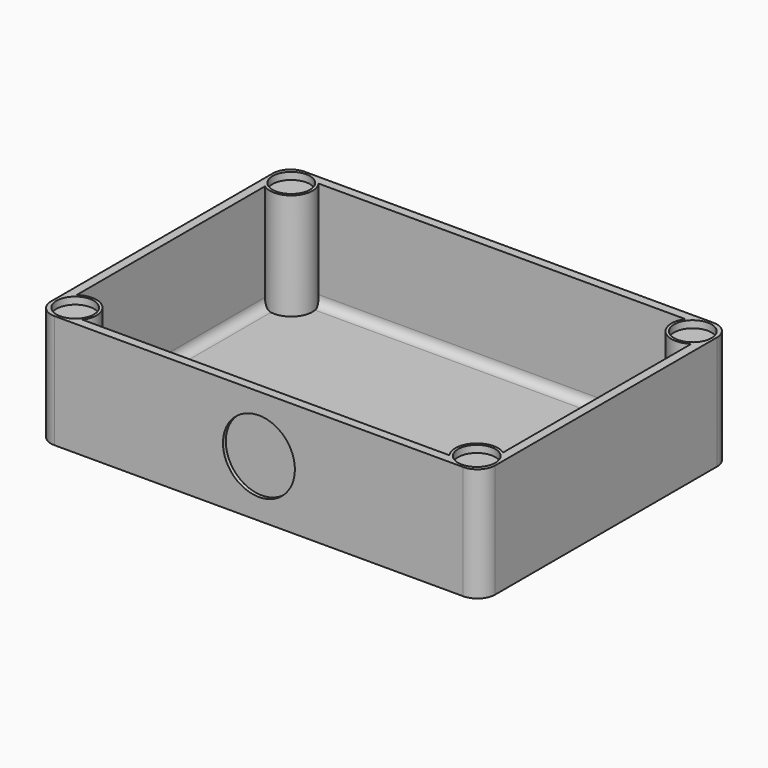
from build123d import *

# Parameters (mm, degrees)
SKETCH_W        = 125
SKETCH_H        = 88
PAD_DEPTH       = 32
SKETCH001_W     = 120
SKETCH001_H     = 83
POCKET_DEPTH    = 32
SKETCH002_R     = 6
PAD001_DEPTH    = 30
SKETCH003_R     = 5.25
POCKET001_DEPTH = 2
FILLET_R        = 2.5
FILLET001_R     = 2.5
FILLET002_R     = 2.5
FILLET003_R     = 2.5
FILLET004_R     = 5
FILLET005_R     = 5
FILLET006_R     = 5
FILLET007_R     = 5
SKETCH004_R     = 10.125
POCKET002_DEPTH = 1


with BuildPart() as part:
    # Sketch → Pad (new body)
    with BuildSketch(Plane.XY):
        with Locations((62.5, 44)):
            Rectangle(SKETCH_W, SKETCH_H)
    extrude(amount=PAD_DEPTH)

    # Sketch001 → Pocket (cut)
    with BuildSketch(Plane.XY.offset(34)):
        with Locations((62.5, 44)):
            Rectangle(SKETCH001_W, SKETCH001_H)
    extrude(amount=-POCKET_DEPTH, mode=Mode.SUBTRACT)

    # Sketch002 (on Face11 of Pocket) → Pad001 (join)
    with BuildSketch(Plane.XY.offset(2)):
        with Locations((6, 6)):
            Circle(SKETCH002_R)
        with Locations((6, 82)):
            Circle(SKETCH002_R)
        with Locations((119, 82)):
            Circle(SKETCH002_R)
        with Locations((119, 6)):
            Circle(SKETCH002_R)
    extrude(amount=PAD001_DEPTH)

    # Sketch003 (on Face27 of Pad001) → Pocket001 (cut)
    with BuildSketch(Plane.XY.offset(32)):
        with Locations((6, 6)):
            Circle(SKETCH003_R)
        with Locations((6, 82)):
            Circle(SKETCH003_R)
        with Locations((119, 82)):
            Circle(SKETCH003_R)
        with Locations((119, 6)):
            Circle(SKETCH003_R)
    extrude(amount=-POCKET001_DEPTH, mode=Mode.SUBTRACT)

    # Fillet
    fillet_edges = [part.edges().sort_by_distance(p)[0] for p in [
        (62.5, 2.5, 2),
    ]]
    fillet(fillet_edges, radius=FILLET_R)

    # Fillet001
    fillet001_edges = [part.edges().sort_by_distance(p)[0] for p in [
        (122.5, 44, 2),
    ]]
    fillet(fillet001_edges, radius=FILLET001_R)

    # Fillet002
    fillet002_edges = [part.edges().sort_by_distance(p)[0] for p in [
        (62.5, 85.5, 2),
    ]]
    fillet(fillet002_edges, radius=FILLET002_R)

    # Fillet003
    fillet003_edges = [part.edges().sort_by_distance(p)[0] for p in [
        (2.5, 44, 2),
    ]]
    fillet(fillet003_edges, radius=FILLET003_R)

    # Fillet004
    fillet004_edges = [part.edges().sort_by_distance(p)[0] for p in [
        (125, 88, 16),
    ]]
    fillet(fillet004_edges, radius=FILLET004_R)

    # Fillet005
    fillet005_edges = [part.edges().sort_by_distance(p)[0] for p in [
        (125, 0, 16),
    ]]
    fillet(fillet005_edges, radius=FILLET005_R)

    # Fillet006
    fillet006_edges = [part.edges().sort_by_distance(p)[0] for p in [
        (0, 0, 16),
    ]]
    fillet(fillet006_edges, radius=FILLET006_R)

    # Fillet007
    fillet007_edges = [part.edges().sort_by_distance(p)[0] for p in [
        (0, 88, 16),
    ]]
    fillet(fillet007_edges, radius=FILLET007_R)

    # Sketch004 (on Face6 of Fillet007) → Pocket002 (cut)
    with BuildSketch(Plane.XZ):
        with Locations((62.5, 16)):
            Circle(SKETCH004_R)
    extrude(amount=-POCKET002_DEPTH, mode=Mode.SUBTRACT)


solid = part.part
